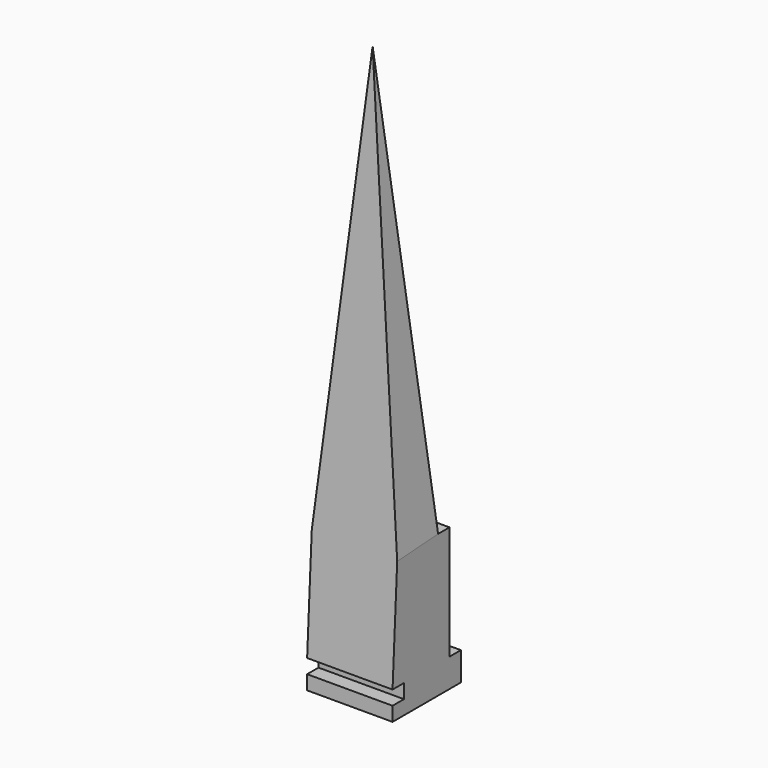
from build123d import *

# Parameters (mm, degrees)
F0_W      = 76.2
F0_H      = 76.2
F1_DEPTH  = 25.4
F2_W      = 76.2
F2_H      = 12.7
F3_DEPTH  = 101.6
F6_DEPTH  = 76.2
F7_W      = 12.7
F7_H      = 12.7
F8_DEPTH  = 76.201
F10_DEPTH = 59.1364003556
F12_DEPTH = 59.1364003556


with BuildPart() as f1:
    # F0 (on Top) → F1 (new body)
    with BuildSketch(Plane.XY):
        Rectangle(F0_W, F0_H)
    extrude(amount=F1_DEPTH)

    # F2 (on face) → F3 (join)
    with BuildSketch(Plane.XY.offset(25.4)):
        with Locations((0, 19.05)):
            Rectangle(F2_W, F2_H)
    extrude(amount=F3_DEPTH)

    # F5 (on face) → F6 (join, through all)
    with BuildSketch(Plane.YZ.offset(38.1)):
        Polygon((-38.1, 25.4), (12.7, 25.4), (12.7, 127), (-12.7, 508), align=None)
    extrude(amount=-F6_DEPTH)

    # F7 (on face) → F8 (cut, through all)
    with BuildSketch(Plane.YZ.offset(38.1)):
        with Locations((-31.75, 19.05)):
            Rectangle(F7_W, F7_H)
    extrude(amount=-F8_DEPTH, mode=Mode.SUBTRACT)

    # F9 (on face) → F10 (cut, through all)
    with BuildSketch(Plane(origin=(0, 21.0730088496, 1.4048672566), x_dir=(-1, 0, 0), z_dir=(0, 0.9977851579, 0.0665190105))):
        Polygon((-38.1, 125.8739236141), (0, 507.7196516248), (-38.1, 507.7196516248), align=None)
    extrude(amount=-F10_DEPTH, mode=Mode.SUBTRACT)

    # F11 (on face) → F12 (cut, through all)
    with BuildSketch(Plane(origin=(0, 21.0730088496, 1.4048672566), x_dir=(-1, 0, 0), z_dir=(0, 0.9977851579, 0.0665190105))):
        Polygon((38.1, 507.7196516248), (0, 507.7196516248), (38.1, 125.8739236141), align=None)
    extrude(amount=-F12_DEPTH, mode=Mode.SUBTRACT)


solid = f1.part
